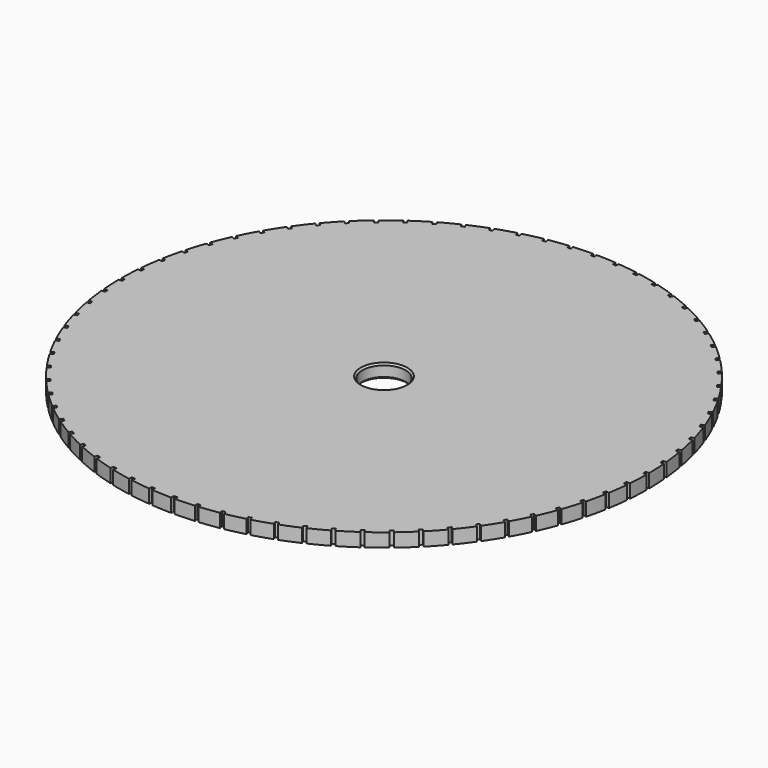
from build123d import *

# Parameters (mm, degrees)
SKETCH_R           = 39
PAD_DEPTH          = 2
SKETCH001_R        = 3.2
POCKET_DEPTH       = 2
CHAMFER_SIZE       = 0.25
SKETCH002_W        = 0.5
SKETCH002_H        = 0.5
POCKET001_DEPTH    = 222.654575
POLARPATTERN_COUNT = 72


with BuildPart() as part:
    # Sketch → Pad (new body)
    with BuildSketch(Plane.XY):
        Circle(SKETCH_R)
    extrude(amount=PAD_DEPTH)

    # Sketch001 → Pocket (cut)
    with BuildSketch(Plane.XY):
        Circle(SKETCH001_R)
    extrude(amount=POCKET_DEPTH, mode=Mode.SUBTRACT)

    # Chamfer
    chamfer_edges = [part.edges().sort_by_distance(p)[0] for p in [
        (-3.2, 0, 2),
        (-3.2, 0, 0),
    ]]
    chamfer(chamfer_edges, length=CHAMFER_SIZE)

    # Sketch002 → Pocket001 (cut, through all)
    with BuildSketch(Plane.XY):
        with Locations((0, 38.75)):
            Rectangle(SKETCH002_W, SKETCH002_H)
    pocket001 = extrude(amount=POCKET001_DEPTH, mode=Mode.SUBTRACT)

    # PolarPattern: Pocket001 ×72 about axis
    polarpattern_axis = Axis((0, 0, 0), (0, 0, 1))
    for i in range(1, POLARPATTERN_COUNT):
        add(pocket001.rotate(polarpattern_axis, i * 360 / POLARPATTERN_COUNT), mode=Mode.SUBTRACT)


solid = part.part
